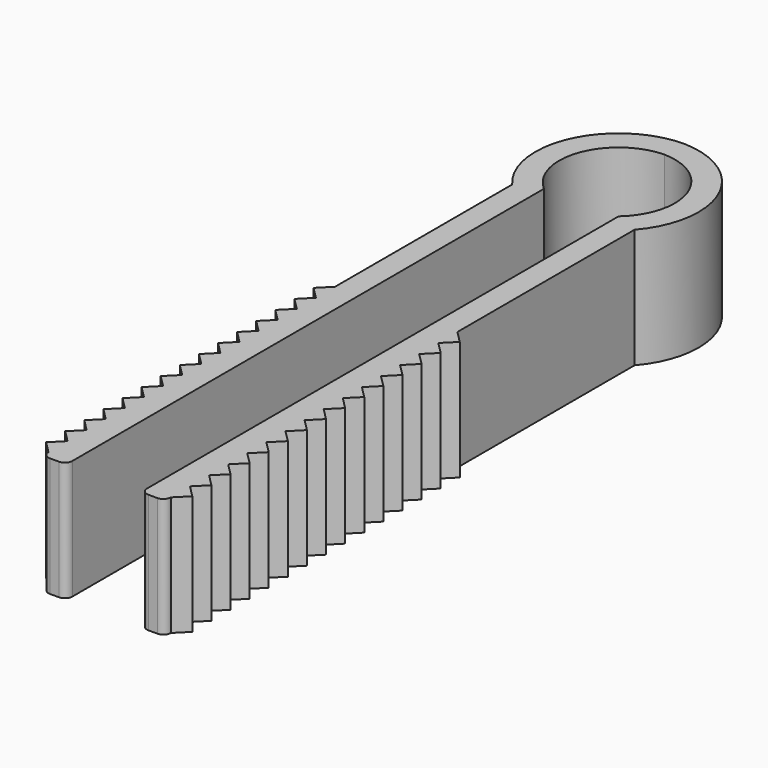
from build123d import *

# Parameters (mm, degrees)
F1_DEPTH = 8


with BuildPart() as f1:
    # F0 (on Top) → F1 (new body)
    with BuildSketch(Plane.XY):
        with BuildLine():
            ThreePointArc((0, 6.968736), (3.636642, 4.340564), (2.5, 0))
            Line((2.5, 0), (2.5, -39.5))
            ThreePointArc((2.5, -39.5), (2.646447, -39.853553), (3, -40))
            Line((3, -40), (3.6, -40))
            ThreePointArc((3.6, -40), (3.953553, -39.853553), (4.1, -39.5))
            Line((4.1, -39.5), (4.1, -37.9))
            Line((4.1, -37.9), (4.1, -36.3))
            Line((4.1, -36.3), (4.1, -34.7))
            Line((4.1, -34.7), (4.1, -33.1))
            Line((4.1, -33.1), (4.1, -31.5))
            Line((4.1, -31.5), (4.1, -29.9))
            Line((4.1, -29.9), (4.1, -28.3))
            Line((4.1, -28.3), (4.1, -26.7))
            Line((4.1, -26.7), (4.1, -25.1))
            Line((4.1, -25.1), (4.1, -23.5))
            Line((4.1, -23.5), (4.1, -21.9))
            Line((4.1, -21.9), (4.1, -20.3))
            Line((4.1, -20.3), (4.1, -18.7))
            Line((4.1, -18.7), (4.1, -17.1))
            Line((4.1, -17.1), (4.1, -15.5))
            Line((4.1, -15.5), (4.1, -0.658339))
            ThreePointArc((4.1, -0.658339), (4.989979, 5.261692), (0, 8.569099))
            Line((0, 8.569099), (0, 6.968736))
        make_face()
        with BuildLine():
            ThreePointArc((-2.5, 0), (-3.636642, 4.340564), (0, 6.968736))
            Line((0, 6.968736), (0, 8.569099))
            ThreePointArc((0, 8.569099), (-4.989979, 5.261692), (-4.1, -0.658339))
            Line((-4.1, -0.658339), (-4.1, -15.5))
            Line((-4.1, -15.5), (-4.1, -17.1))
            Line((-4.1, -17.1), (-4.1, -18.7))
            Line((-4.1, -18.7), (-4.1, -20.3))
            Line((-4.1, -20.3), (-4.1, -21.9))
            Line((-4.1, -21.9), (-4.1, -23.5))
            Line((-4.1, -23.5), (-4.1, -25.1))
            Line((-4.1, -25.1), (-4.1, -26.7))
            Line((-4.1, -26.7), (-4.1, -28.3))
            Line((-4.1, -28.3), (-4.1, -29.9))
            Line((-4.1, -29.9), (-4.1, -31.5))
            Line((-4.1, -31.5), (-4.1, -33.1))
            Line((-4.1, -33.1), (-4.1, -34.7))
            Line((-4.1, -34.7), (-4.1, -36.3))
            Line((-4.1, -36.3), (-4.1, -37.9))
            Line((-4.1, -37.9), (-4.1, -39.5))
            ThreePointArc((-4.1, -39.5), (-3.953553, -39.853553), (-3.6, -40))
            Line((-3.6, -40), (-3, -40))
            ThreePointArc((-3, -40), (-2.646447, -39.853553), (-2.5, -39.5))
            Line((-2.5, -39.5), (-2.5, 0))
        make_face()
        Polygon((4.9, -16.3), (4.1, -15.5), (4.1, -17.1), align=None)
        Polygon((-4.1, -17.1), (-4.1, -15.5), (-4.9, -16.3), align=None)
        Polygon((4.1, -37.9), (4.1, -39.5), (4.9, -38.7), align=None)
        Polygon((4.9, -17.9), (4.1, -17.1), (4.1, -18.7), align=None)
        Polygon((-4.1, -18.7), (-4.1, -17.1), (-4.9, -17.9), align=None)
        Polygon((4.1, -36.3), (4.1, -37.9), (4.9, -37.1), align=None)
        Polygon((4.9, -19.5), (4.1, -18.7), (4.1, -20.3), align=None)
        Polygon((-4.1, -20.3), (-4.1, -18.7), (-4.9, -19.5), align=None)
        Polygon((-4.9, -38.7), (-4.1, -39.5), (-4.1, -37.9), align=None)
        Polygon((4.1, -34.7), (4.1, -36.3), (4.9, -35.5), align=None)
        Polygon((4.9, -21.1), (4.1, -20.3), (4.1, -21.9), align=None)
        Polygon((-4.1, -21.9), (-4.1, -20.3), (-4.9, -21.1), align=None)
        Polygon((-4.9, -37.1), (-4.1, -37.9), (-4.1, -36.3), align=None)
        Polygon((4.1, -33.1), (4.1, -34.7), (4.9, -33.9), align=None)
        Polygon((4.9, -22.7), (4.1, -21.9), (4.1, -23.5), align=None)
        Polygon((-4.1, -23.5), (-4.1, -21.9), (-4.9, -22.7), align=None)
        Polygon((-4.9, -35.5), (-4.1, -36.3), (-4.1, -34.7), align=None)
        Polygon((4.1, -31.5), (4.1, -33.1), (4.9, -32.3), align=None)
        Polygon((4.9, -24.3), (4.1, -23.5), (4.1, -25.1), align=None)
        Polygon((-4.1, -25.1), (-4.1, -23.5), (-4.9, -24.3), align=None)
        Polygon((-4.9, -33.9), (-4.1, -34.7), (-4.1, -33.1), align=None)
        Polygon((4.1, -29.9), (4.1, -31.5), (4.9, -30.7), align=None)
        Polygon((4.9, -25.9), (4.1, -25.1), (4.1, -26.7), align=None)
        Polygon((-4.1, -26.7), (-4.1, -25.1), (-4.9, -25.9), align=None)
        Polygon((-4.9, -32.3), (-4.1, -33.1), (-4.1, -31.5), align=None)
        Polygon((4.1, -28.3), (4.1, -29.9), (4.9, -29.1), align=None)
        Polygon((4.9, -27.5), (4.1, -26.7), (4.1, -28.3), align=None)
        Polygon((-4.1, -28.3), (-4.1, -26.7), (-4.9, -27.5), align=None)
        Polygon((-4.9, -30.7), (-4.1, -31.5), (-4.1, -29.9), align=None)
        Polygon((-4.1, -29.9), (-4.1, -28.3), (-4.9, -29.1), align=None)
    extrude(amount=F1_DEPTH)


solid = f1.part
